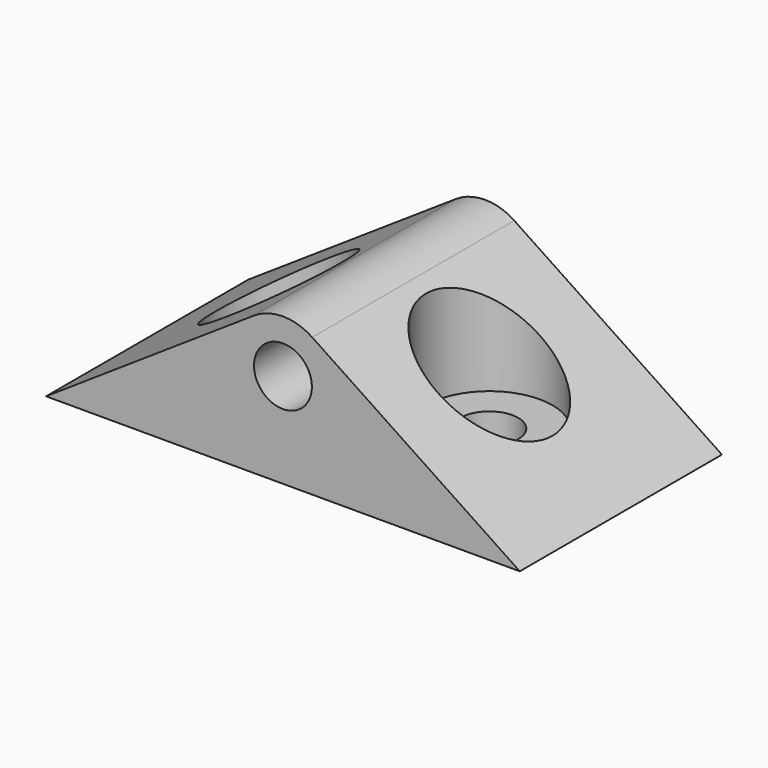
from build123d import *

# Parameters (mm, degrees)
F0_W     = 45
F0_H     = 24
F0_R     = 2.75
F1_DEPTH = 15
F2_R     = 6
F2_R_2   = 2.75
F3_DEPTH = 12
F4_R     = 2.75
F5_DEPTH = 24.001


with BuildPart() as f1:
    # F0 (on Top) → F1 (new body)
    with BuildSketch(Plane.XY):
        Rectangle(F0_W, F0_H)
        with Locations((-10, 0)):
            Circle(F0_R, mode=Mode.SUBTRACT)
        with Locations((10, 0)):
            Circle(F0_R, mode=Mode.SUBTRACT)
    extrude(amount=F1_DEPTH)

    # F2 (on face) → F3 (cut)
    with BuildSketch(Plane.XY.offset(15)):
        with Locations((-10, 0)):
            Circle(F2_R)
        with Locations((-10, 0)):
            Circle(F2_R_2, mode=Mode.SUBTRACT)
        with Locations((10, 0)):
            Circle(F2_R)
        with Locations((10, 0)):
            Circle(F2_R_2, mode=Mode.SUBTRACT)
    extrude(amount=-F3_DEPTH, mode=Mode.SUBTRACT)

    # F4 (on face) → F5 (cut, through all)
    with BuildSketch(Plane.XZ.offset(12)):
        with Locations((0, 9)):
            Circle(F4_R)
        with BuildLine():
            ThreePointArc((-2.774851, 13.159351), (0, 14), (2.774851, 13.159351))
            Line((2.774851, 13.159351), (22.5, 0))
            Line((22.5, 0), (22.5, 15))
            Line((22.5, 15), (-22.5, 15))
            Line((-22.5, 15), (-22.5, 0))
            Line((-22.5, 0), (-2.774851, 13.159351))
        make_face()
    extrude(amount=-F5_DEPTH, mode=Mode.SUBTRACT)


solid = f1.part
